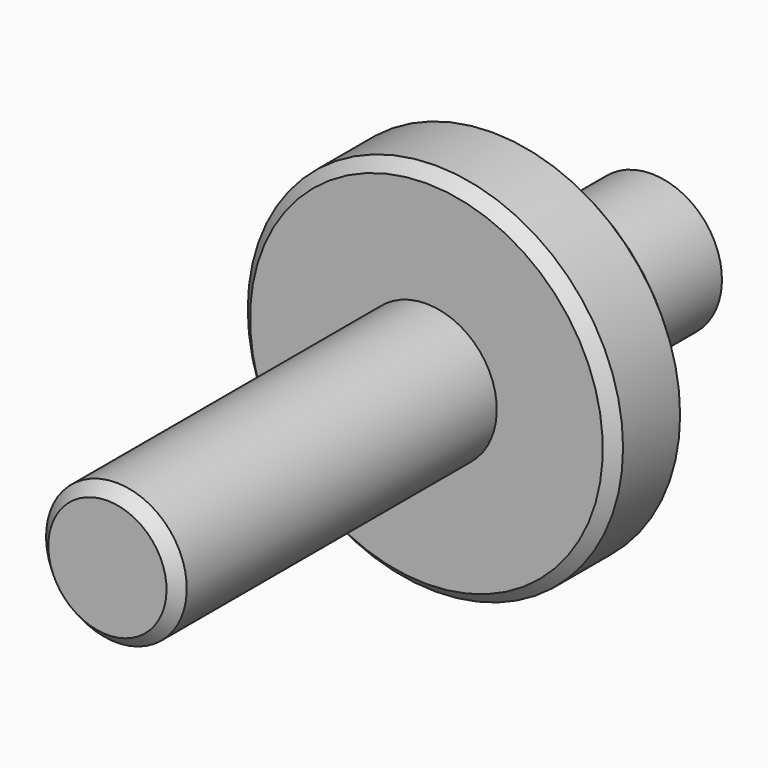
from build123d import *

# Parameters (mm, degrees)
F2_SIZE = 1.524


with BuildPart() as f1:
    # F0 (on Right) → F1 (revolve)
    with BuildSketch(Plane.YZ):
        Polygon((53.975, 9.525), (0, 9.525), (0, 0), (92.075, 0), (92.075, 9.525), (66.675, 9.525), (66.675, 25.4), (53.975, 25.4), align=None)
    revolve(axis=Axis((0, -9.222206, 0), (0, -1, 0)))

    # F2
    f2_edges = [f1.edges().sort_by_distance(p)[0] for p in [
        (0, 53.975, -25.4),
        (0, 66.675, -25.4),
        (0, 0, -9.525),
    ]]
    chamfer(f2_edges, length=F2_SIZE)


solid = f1.part
